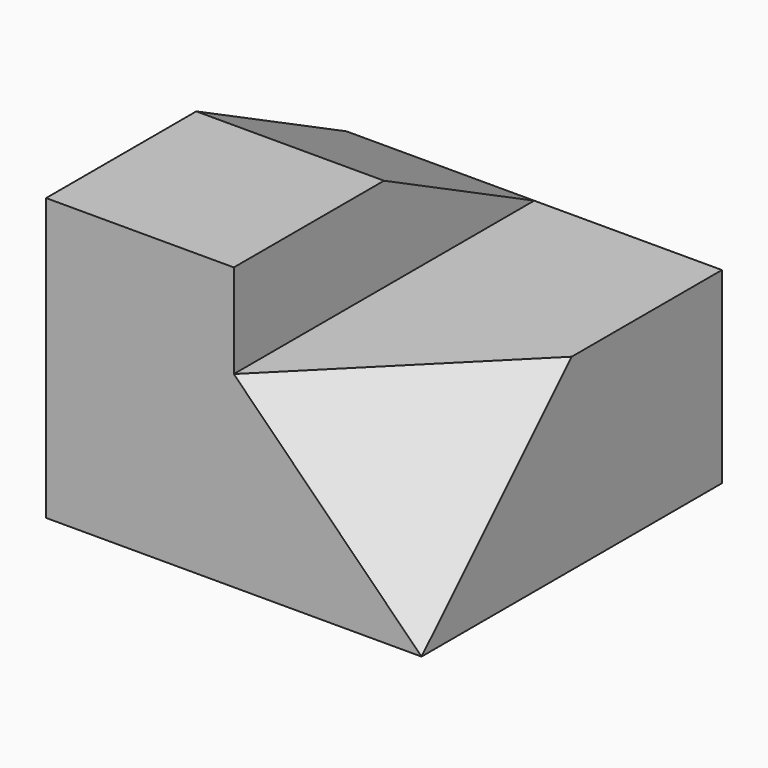
from build123d import *

# Parameters (mm, degrees)
F0_W     = 127
F0_H     = 127
F1_DEPTH = 190.5
F2_DEPTH = 127
F4_DEPTH = 127
F8_DEPTH = 76.2


with BuildPart() as f1:
    # F0 (on Top) → F1 (new body)
    with BuildSketch(Plane.XY):
        with Locations((63.5, 63.5)):
            Rectangle(F0_W, F0_H)
        with Locations((63.5, 190.5)):
            Rectangle(F0_W, F0_H)
    extrude(amount=F1_DEPTH)

    # F0 (on Top) → F2 (join)
    with BuildSketch(Plane.XY):
        Polygon((127, 127), (127, 0), (254, 127), (254, 254), (127, 254), align=None)
        Polygon((254, 127), (127, 0), (254, 0), align=None)
    extrude(amount=F2_DEPTH)

    # F3 (on face) → F4 (cut)
    with BuildSketch(Plane.YZ.offset(127)):
        Polygon((254, 190.5), (127, 190.5), (254, 127), align=None)
    extrude(amount=-F4_DEPTH, mode=Mode.SUBTRACT)

    # F7 (on 3pt) → F8 (cut)
    with BuildSketch(Plane(origin=(84.6666666667, -84.6666666667, 84.6666666667), x_dir=(0.8164965809, 0.4082482905, -0.4082482905), z_dir=(0.5773502692, -0.5773502692, 0.5773502692))):
        Polygon((207.3901315556, 0), (207.3901315556, 179.6051224214), (51.8475328889, 89.8025612107), align=None)
    extrude(amount=F8_DEPTH, mode=Mode.SUBTRACT)


solid = f1.part
